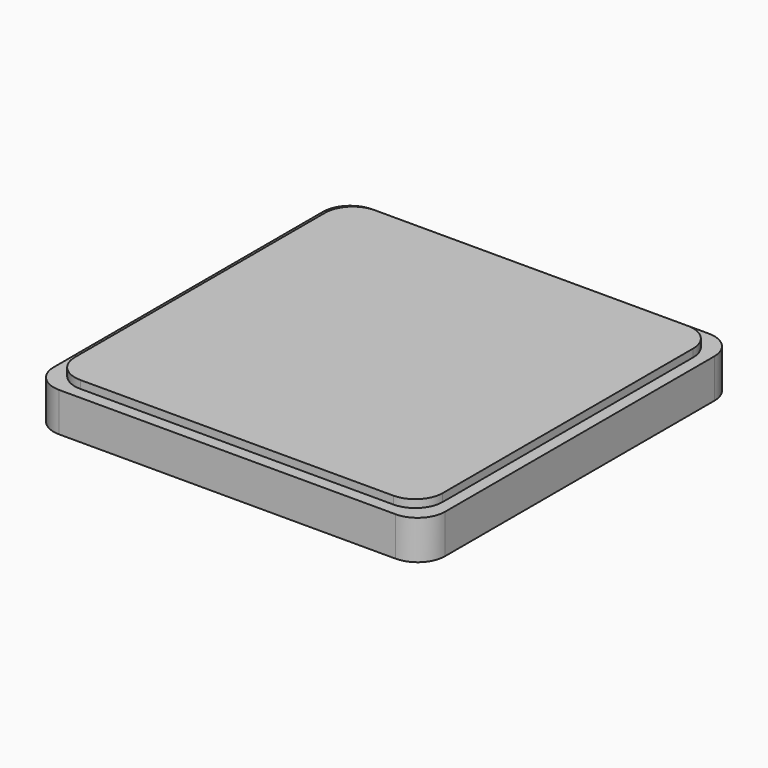
from build123d import *

# Parameters (mm, degrees)
BOX002_W     = 100
BOX002_H     = 100
BOX002_DEPTH = 10
FILLET002_R  = 7
BOX003_W     = 94
BOX003_H     = 94
BOX003_DEPTH = 2
FILLET003_R  = 7


with BuildPart() as body_with_fillets001:
    # Box002 → Box002 (new body)
    with BuildSketch(Plane.XY):
        with Locations((50, 50)):
            Rectangle(BOX002_W, BOX002_H)
    extrude(amount=BOX002_DEPTH)

    # Fillet002
    fillet002_edges = [body_with_fillets001.edges().sort_by_distance(p)[0] for p in [
        (0, 0, 5),
        (0, 100, 5),
        (100, 0, 5),
        (100, 100, 5),
    ]]
    fillet(fillet002_edges, radius=FILLET002_R)


with BuildPart() as base003:
    # Box003 → Box003 (new body)
    with BuildSketch(Plane(origin=(3, 3, 10), x_dir=(1, 0, 0), z_dir=(0, 0, 1))):
        with Locations((47, 47)):
            Rectangle(BOX003_W, BOX003_H)
    extrude(amount=BOX003_DEPTH)

    # Fillet003
    fillet003_edges = [base003.edges().sort_by_distance(p)[0] for p in [
        (3, 3, 11),
        (3, 97, 11),
        (97, 3, 11),
        (97, 97, 11),
    ]]
    fillet(fillet003_edges, radius=FILLET003_R)

    # Fusion001: union Body with fillets001
    add(body_with_fillets001.part)


solid = base003.part
